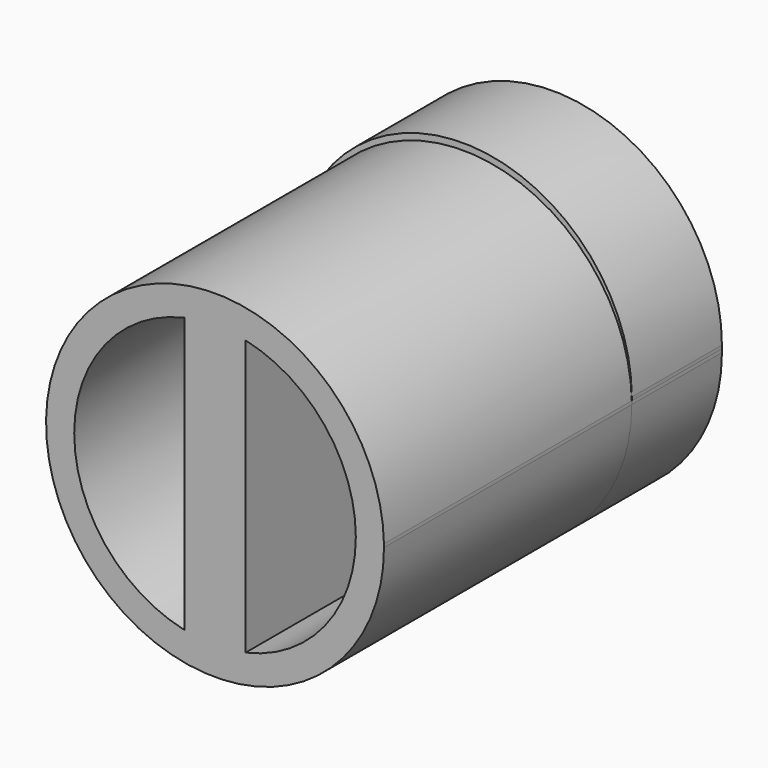
from build123d import *

# Parameters (mm, degrees)
F1_DEPTH = 69.85
F2_DEPTH = 25.4


with BuildPart() as f1:
    # F0 (on Front) → F1 (new body)
    with BuildSketch(Plane.XZ):
        with BuildLine():
            ThreePointArc((-38.0928630153, 0.7374193519), (0, -36.6251612961), (38.0928630153, 0.7374193519))
            ThreePointArc((38.0928630153, 0.7374193519), (0, 38.1), (-38.0928630153, 0.7374193519))
        make_face()
        with BuildLine():
            ThreePointArc((6.9034835295, 30.990392304), (24.7714361923, 19.8604745404), (31.75, 0))
            ThreePointArc((31.75, 0), (24.7714361923, -19.8604745404), (6.9034835295, -30.990392304))
            ThreePointArc((6.9034835295, -30.990392304), (0, -31.75), (-6.9034835295, -30.990392304))
            ThreePointArc((-6.9034835295, -30.990392304), (-31.75, 0), (-6.9034835295, 30.990392304))
            ThreePointArc((-6.9034835295, 30.990392304), (0, 31.75), (6.9034835295, 30.990392304))
        make_face(mode=Mode.SUBTRACT)
        with BuildLine():
            ThreePointArc((-38.0928630153, 0.7374193519), (-0.3687269441, -38.098215712), (38.1, 0))
            ThreePointArc((38.1, 0), (38.098215712, 0.3687269441), (38.0928630153, 0.7374193519))
            ThreePointArc((38.0928630153, 0.7374193519), (0, -36.6251612961), (-38.0928630153, 0.7374193519))
        make_face()
        with BuildLine():
            Line((6.9034835295, -30.990392304), (6.9034835295, 30.990392304))
            ThreePointArc((6.9034835295, 30.990392304), (0, 31.75), (-6.9034835295, 30.990392304))
            Line((-6.9034835295, 30.990392304), (-6.9034835295, -30.990392304))
            ThreePointArc((-6.9034835295, -30.990392304), (0, -31.75), (6.9034835295, -30.990392304))
        make_face()
        with BuildLine():
            ThreePointArc((-38.0928630153, 0.7374193519), (-0.3687269441, -38.098215712), (38.1, 0))
            ThreePointArc((38.1, 0), (38.098215712, 0.3687269441), (38.0928630153, 0.7374193519))
            ThreePointArc((38.0928630153, 0.7374193519), (0, -36.6251612961), (-38.0928630153, 0.7374193519))
        make_face()
    extrude(amount=F1_DEPTH)


with BuildPart() as f2:
    # F0 (on Front) → F2 (new body)
    with BuildSketch(Plane.XZ):
        with BuildLine():
            ThreePointArc((-38.0928630153, 0.7374193519), (-0.3687269441, -38.098215712), (38.1, 0))
            ThreePointArc((38.1, 0), (38.098215712, 0.3687269441), (38.0928630153, 0.7374193519))
            ThreePointArc((38.0928630153, 0.7374193519), (0, -36.6251612961), (-38.0928630153, 0.7374193519))
        make_face()
        with BuildLine():
            ThreePointArc((-38.0928630153, 0.7374193519), (0, -36.6251612961), (38.0928630153, 0.7374193519))
            ThreePointArc((38.0928630153, 0.7374193519), (0, 38.1), (-38.0928630153, 0.7374193519))
        make_face()
        with BuildLine():
            ThreePointArc((6.9034835295, 30.990392304), (24.7714361923, 19.8604745404), (31.75, 0))
            ThreePointArc((31.75, 0), (24.7714361923, -19.8604745404), (6.9034835295, -30.990392304))
            ThreePointArc((6.9034835295, -30.990392304), (0, -31.75), (-6.9034835295, -30.990392304))
            ThreePointArc((-6.9034835295, -30.990392304), (-31.75, 0), (-6.9034835295, 30.990392304))
            ThreePointArc((-6.9034835295, 30.990392304), (0, 31.75), (6.9034835295, 30.990392304))
        make_face(mode=Mode.SUBTRACT)
        with BuildLine():
            ThreePointArc((-38.0928630153, 0.7374193519), (0, 38.1), (38.0928630153, 0.7374193519))
            ThreePointArc((38.0928630153, 0.7374193519), (38.098215712, 1.1061117598), (38.1, 1.4748387039))
            ThreePointArc((38.1, 1.4748387039), (-0.3687269441, 39.5730544159), (-38.0928630153, 0.7374193519))
        make_face()
        with BuildLine():
            Line((-6.9034835295, -30.990392304), (-6.9034835295, 30.990392304))
            ThreePointArc((-6.9034835295, 30.990392304), (-31.75, 0), (-6.9034835295, -30.990392304))
        make_face()
        with BuildLine():
            ThreePointArc((6.9034835295, -30.990392304), (24.7714361923, -19.8604745404), (31.75, 0))
            ThreePointArc((31.75, 0), (24.7714361923, 19.8604745404), (6.9034835295, 30.990392304))
            Line((6.9034835295, 30.990392304), (6.9034835295, -30.990392304))
        make_face()
        with BuildLine():
            Line((6.9034835295, -30.990392304), (6.9034835295, 30.990392304))
            ThreePointArc((6.9034835295, 30.990392304), (0, 31.75), (-6.9034835295, 30.990392304))
            Line((-6.9034835295, 30.990392304), (-6.9034835295, -30.990392304))
            ThreePointArc((-6.9034835295, -30.990392304), (0, -31.75), (6.9034835295, -30.990392304))
        make_face()
    extrude(amount=-F2_DEPTH)


solid = Compound([f1.part, f2.part])
